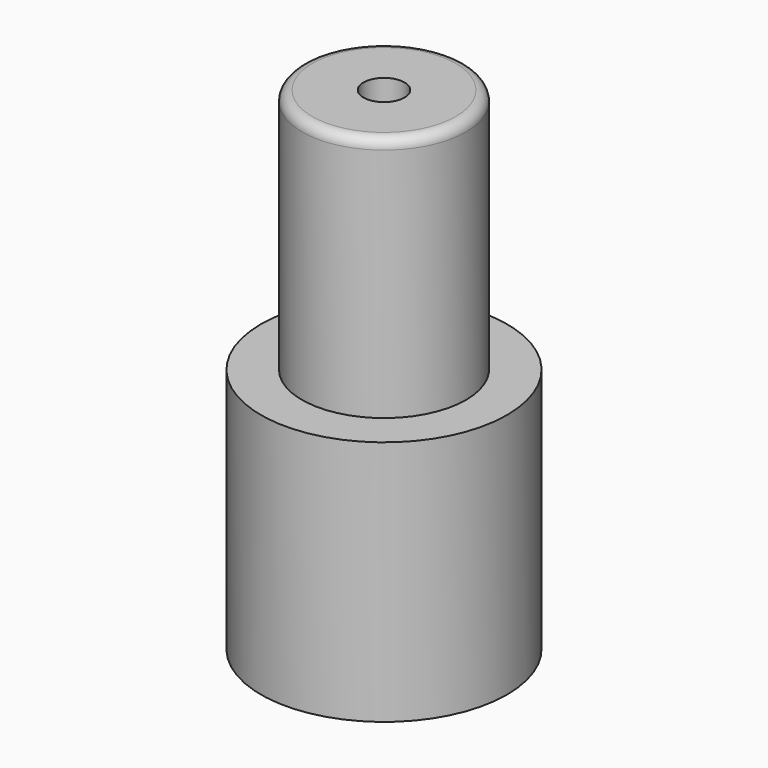
from build123d import *

# Parameters (mm, degrees)
F0_R     = 1
F1_DEPTH = 2
F0_R_2   = 4
F2_DEPTH = 24
F0_R_3   = 6
F3_DEPTH = 12
F4_R     = 0.5


with BuildPart() as f1:
    # F0 (on Top) → F1 (new body)
    with BuildSketch(Plane.XY):
        Circle(F0_R)
    extrude(amount=F1_DEPTH)

    # F0 (on Top) → F2 (join)
    with BuildSketch(Plane.XY):
        Circle(F0_R_2)
        Circle(F0_R, mode=Mode.SUBTRACT)
    extrude(amount=F2_DEPTH)

    # F0 (on Top) → F3 (join)
    with BuildSketch(Plane.XY):
        Circle(F0_R_3)
        Circle(F0_R_2, mode=Mode.SUBTRACT)
    extrude(amount=F3_DEPTH)

    # F4
    f4_edges = [f1.edges().sort_by_distance(p)[0] for p in [
        (-4, 0, 24),
    ]]
    fillet(f4_edges, radius=F4_R)


solid = f1.part
